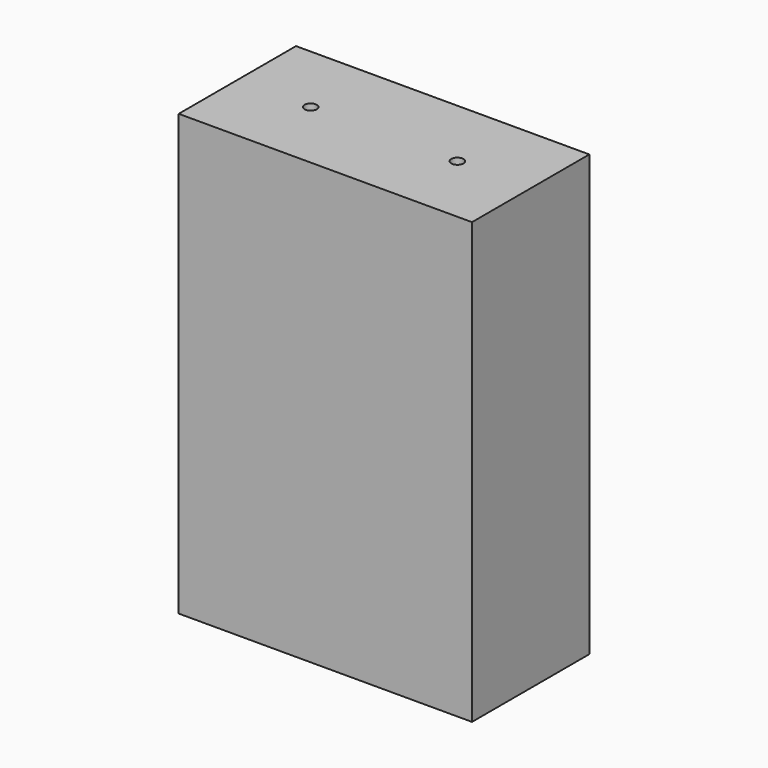
from build123d import *

# Parameters (mm, degrees)
F0_W     = 60
F0_H     = 30
F1_DEPTH = 90
F3_R     = 1.25
F4_DEPTH = 40
F5_R     = 1.25
F6_DEPTH = 40


with BuildPart() as f1:
    # F0 (on Top) → F1 (new body)
    with BuildSketch(Plane.XY):
        Rectangle(F0_W, F0_H)
    extrude(amount=F1_DEPTH)

    # F3 (on face) → F4 (cut)
    with BuildSketch(Plane(origin=(0, 0, 0), x_dir=(1, 0, 0), z_dir=(0, 0, -1))):
        with Locations((-15, 0)):
            Circle(F3_R)
        with Locations((15, 0)):
            Circle(F3_R)
    extrude(amount=-F4_DEPTH, mode=Mode.SUBTRACT)

    # F5 (on face) → F6 (cut)
    with BuildSketch(Plane.XY.offset(90)):
        with Locations((-15, 0)):
            Circle(F5_R)
        with Locations((15, 0)):
            Circle(F5_R)
    extrude(amount=-F6_DEPTH, mode=Mode.SUBTRACT)


solid = f1.part
